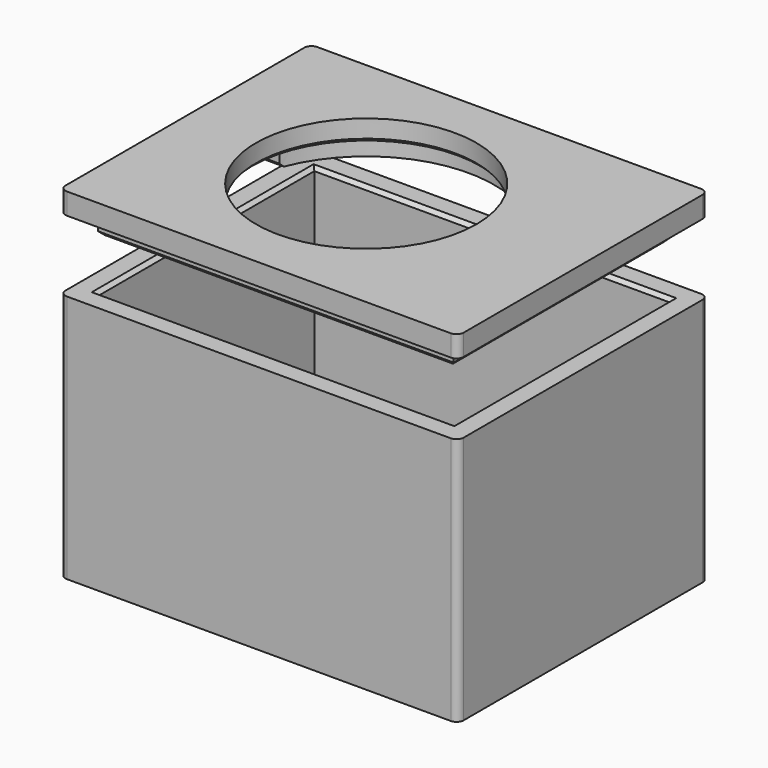
from build123d import *

# Parameters (mm, degrees)
SKETCH_W        = 56
SKETCH_H        = 44
PAD_DEPTH       = 35
SKETCH001_W     = 50
SKETCH001_H     = 38
POCKET_DEPTH    = 32
CHAMFER_SIZE    = 0.5
SKETCH002_R     = 6
POCKET002_DEPTH = 3.5
FILLET_R        = 1
SKETCH003_W     = 56
SKETCH003_H     = 44
PAD001_DEPTH    = 3
PAD002_DEPTH    = 3
CHAMFER001_SIZE = 0.5
SKETCH005_R     = 15.5
POCKET001_DEPTH = 6.001
CHAMFER002_SIZE = 0.5
CHAMFER003_SIZE = 0.5
FILLET001_R     = 1


with BuildPart() as enclosure:
    # Sketch → Pad (new body)
    with BuildSketch(Plane.XY):
        Rectangle(SKETCH_W, SKETCH_H)
    extrude(amount=PAD_DEPTH)

    # Sketch001 (on Face6 of Pad) → Pocket (cut)
    with BuildSketch(Plane.XY.offset(35)):
        Rectangle(SKETCH001_W, SKETCH001_H)
    extrude(amount=-POCKET_DEPTH, mode=Mode.SUBTRACT)

    # Chamfer
    chamfer_edges = [enclosure.edges().sort_by_distance(p)[0] for p in [
        (0, 19, 35),
        (-25, 0, 35),
        (0, -19, 35),
        (25, 0, 35),
    ]]
    chamfer(chamfer_edges, length=CHAMFER_SIZE)

    # Sketch002 (on Face2 of Pocket) → Pocket002 (cut)
    with BuildSketch(Plane(origin=(-28, 0, 0), x_dir=(0, -1, 0), z_dir=(-1, 0, 0))):
        with Locations((13, 9)):
            Circle(SKETCH002_R)
    extrude(amount=-POCKET002_DEPTH, mode=Mode.SUBTRACT)

    # Fillet
    fillet_edges = [enclosure.edges().sort_by_distance(p)[0] for p in [
        (-28, 22, 17.5),
        (28, 22, 17.5),
        (28, -22, 17.5),
        (-28, -22, 17.5),
    ]]
    fillet(fillet_edges, radius=FILLET_R)


with BuildPart() as lid:
    # Sketch003 (on DatumPlane) → Pad001 (new body)
    with BuildSketch(Plane.XY.offset(45)):
        Rectangle(SKETCH003_W, SKETCH003_H)
    extrude(amount=PAD001_DEPTH)

    # Sketch004 (on Face5 of Pad001) → Pad002 (join)
    with BuildSketch(Plane(origin=(0, 0, 45), x_dir=(1, 0, 0), z_dir=(0, 0, -1))):
        with BuildLine():
            Line((-25, 19), (25, 19))
            Line((25, 19), (25, -19))
            Line((25, -19), (-25, -19))
            Line((-25, -19), (-25, -6))
            Line((-25, -6), (-19.470563, -6))
            ThreePointArc((-19.470563, -6), (15.5, 0), (-19.470563, 6))
            Line((-25, 6), (-19.470563, 6))
            Line((-25, 6), (-25, 19))
        make_face()
    extrude(amount=PAD002_DEPTH)

    # Chamfer001
    chamfer001_edges = [lid.edges().sort_by_distance(p)[0] for p in [
        (0, -19, 42),
        (-25, -12.5, 42),
        (-25, 12.5, 42),
        (0, 19, 42),
        (25, 0, 42),
    ]]
    chamfer(chamfer001_edges, length=CHAMFER001_SIZE)

    # Sketch005 (on Face5 of Pad002) → Pocket001 (cut, through all)
    with BuildSketch(Plane.XY.offset(48)):
        with Locations((-2.5, 0)):
            Circle(SKETCH005_R)
    extrude(amount=-POCKET001_DEPTH, mode=Mode.SUBTRACT)

    # Chamfer002
    chamfer002_edges = [lid.edges().sort_by_distance(p)[0] for p in [
        (-18, 0, 45),
    ]]
    chamfer(chamfer002_edges, length=CHAMFER002_SIZE)

    # Chamfer003
    chamfer003_edges = [lid.edges().sort_by_distance(p)[0] for p in [
        (-21.985281, 6, 42),
        (-21.985281, -6, 42),
    ]]
    chamfer(chamfer003_edges, length=CHAMFER003_SIZE)

    # Fillet001
    fillet001_edges = [lid.edges().sort_by_distance(p)[0] for p in [
        (28, -22, 46.5),
        (28, 22, 46.5),
        (-28, 22, 46.5),
        (-28, -22, 46.5),
    ]]
    fillet(fillet001_edges, radius=FILLET001_R)


solid = Compound([enclosure.part, lid.part])
